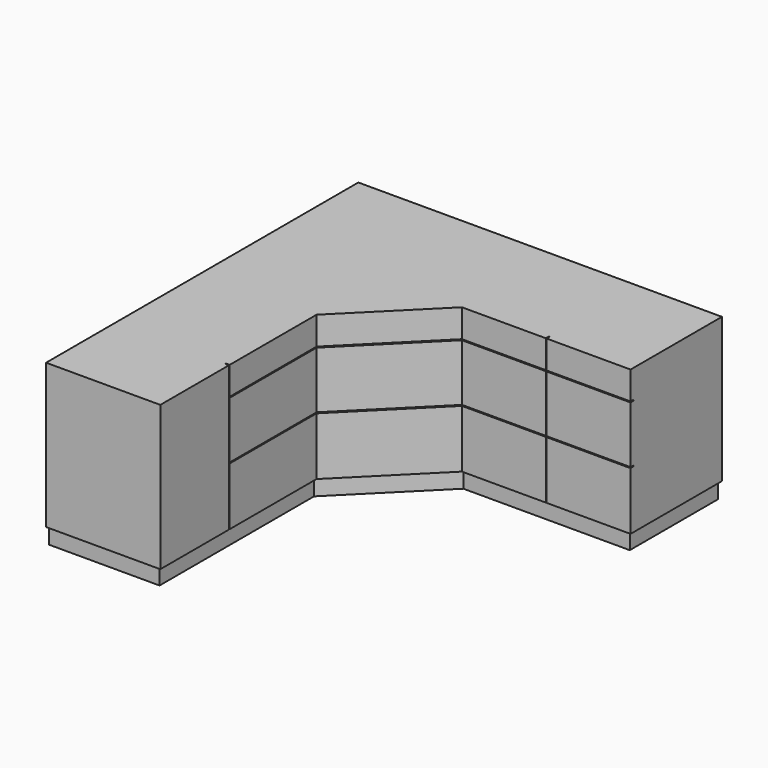
from build123d import *

# Parameters (mm, degrees)
F1_DEPTH  = 850
F3_DEPTH  = 90
F4_W      = 5
F4_H      = 760
F5_DEPTH  = 20
F7_DEPTH  = 20
F8_W      = 570.735931
F8_H      = 5
F9_DEPTH  = 20
F10_W     = 600
F10_H     = 5
F11_DEPTH = 20


with BuildPart() as f1:
    # F0 (on Top) → F1 (new body)
    with BuildSketch(Plane.XY):
        Polygon((-993.667342, 1110.628466), (-993.667342, -939.371534), (-393.667342, -939.371534), (-393.667342, 86.364397), (30.596727, 510.628466), (916.332658, 510.628466), (916.332658, 1110.628466), align=None)
    extrude(amount=F1_DEPTH)

    # F2 (on face) → F3 (cut)
    with BuildSketch(Plane(origin=(0, 0, 0), x_dir=(1, 0, 0), z_dir=(0, 0, -1))):
        Polygon((-993.667342, 919.371534), (-413.667342, 919.371534), (-413.667342, -94.648668), (22.312456, -530.628466), (896.332658, -530.628466), (896.332658, -1110.628466), (916.332658, -1110.628466), (916.332658, -510.628466), (30.596727, -510.628466), (-393.667342, -86.364397), (-393.667342, 939.371534), (-993.667342, 939.371534), align=None)
    extrude(amount=-F3_DEPTH, mode=Mode.SUBTRACT)

    # F4 (on face) → F5 (cut)
    with BuildSketch(Plane.YZ.offset(-393.667342)):
        with Locations((-486.871534, 470)):
            Rectangle(F4_W, F4_H)
    extrude(amount=-F5_DEPTH, mode=Mode.SUBTRACT)

    # F6 (on face) → F7 (cut)
    with BuildSketch(Plane.XZ.offset(-510.628466)):
        Polygon((470.964693, 702.5), (30.596727, 702.5), (30.596727, 697.5), (470.964693, 697.5), (470.964693, 398.75), (30.596727, 398.75), (30.596727, 393.75), (470.964693, 393.75), (470.964693, 90), (475.964693, 90), (475.964693, 393.75), (916.332658, 393.75), (916.332658, 398.75), (475.964693, 398.75), (475.964693, 697.5), (916.332658, 697.5), (916.332658, 702.5), (475.964693, 702.5), (475.964693, 850), (470.964693, 850), align=None)
    extrude(amount=-F7_DEPTH, mode=Mode.SUBTRACT)

    # F8 (on face) → F9 (cut)
    with BuildSketch(Plane.YZ.offset(-393.667342)):
        with Locations((-199.003569, 700)):
            Rectangle(F8_W, F8_H)
        with Locations((-199.003569, 396.25)):
            Rectangle(F8_W, F8_H)
    extrude(amount=-F9_DEPTH, mode=Mode.SUBTRACT)

    # F10 (on face) → F11 (cut)
    with BuildSketch(Plane(origin=(-240.015869, 240.015869, 0), x_dir=(0.707107, 0.707107, 0), z_dir=(0.707107, -0.707107, 0))):
        with Locations((82.704004, 700)):
            Rectangle(F10_W, F10_H)
        with Locations((82.704004, 396.25)):
            Rectangle(F10_W, F10_H)
    extrude(amount=-F11_DEPTH, mode=Mode.SUBTRACT)


solid = f1.part
